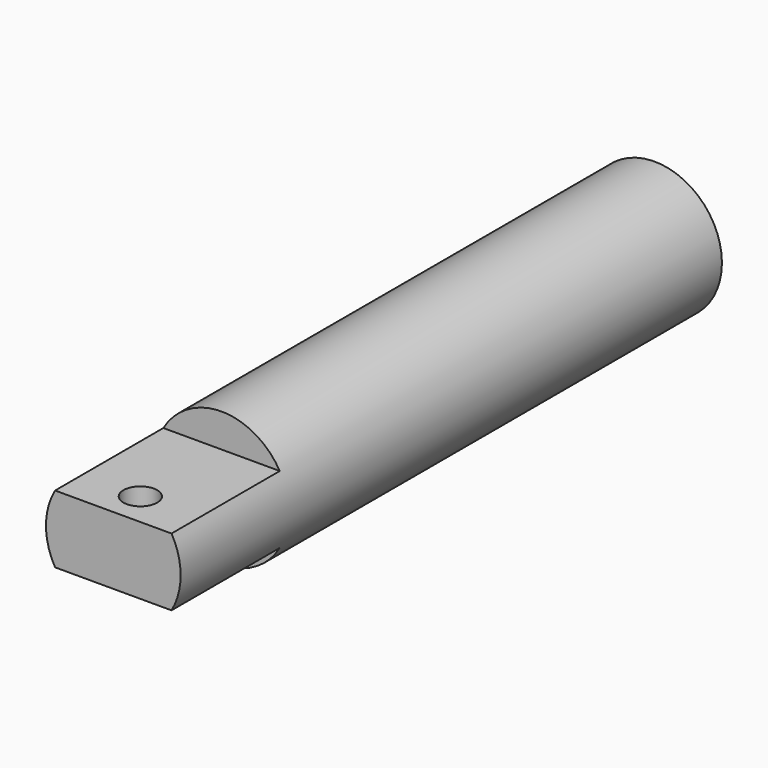
from build123d import *

# Parameters (mm, degrees)
F0_R     = 12.6365
F1_DEPTH = 127
F2_W     = 40.9677394912
F2_H     = 9.1337081209
F2_H_2   = 9.34015719
F3_DEPTH = 25.4
F4_R     = 3.175
F5_DEPTH = 12.7


with BuildPart() as f1:
    # F0 (on Front) → F1 (new body)
    with BuildSketch(Plane.XZ):
        Circle(F0_R)
    extrude(amount=-F1_DEPTH)

    # F2 (on face) → F3 (cut)
    with BuildSketch(Plane.XZ):
        with Locations((0.9290231392, -10.9168540604)):
            Rectangle(F2_W, F2_H)
        with Locations((0.9290231392, 11.020078595)):
            Rectangle(F2_W, F2_H_2)
    extrude(amount=-F3_DEPTH, mode=Mode.SUBTRACT)

    # F4 (on face) → F5 (cut, through all)
    with BuildSketch(Plane(origin=(0, 0, -6.35), x_dir=(1, 0, 0), z_dir=(0, 0, -1))):
        with Locations((0, -6.35)):
            Circle(F4_R)
    extrude(amount=-F5_DEPTH, mode=Mode.SUBTRACT)

    # F6 (on Top) → F7 (revolve, cut)
    with BuildSketch(Plane.XY):
        with BuildLine():
            Line((0, 133.35), (12.7, 133.35))
            ThreePointArc((12.7, 133.35), (0, 146.05), (-12.7, 133.35))
            Line((-12.7, 133.35), (0, 133.35))
        make_face()
    revolve(axis=Axis((-6.35, 133.35, 0), (-1, 0, 0)), mode=Mode.SUBTRACT)


solid = f1.part
